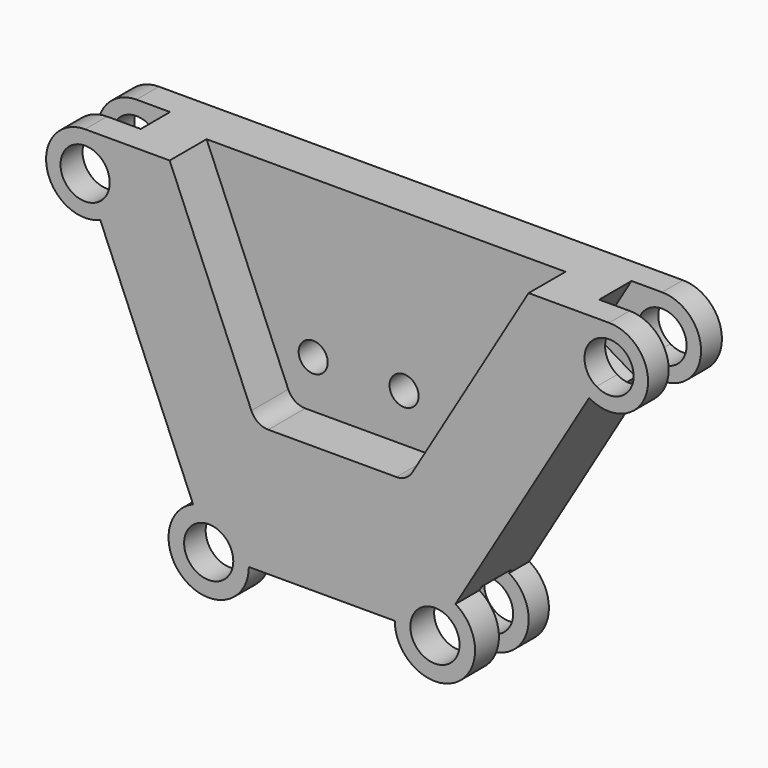
from build123d import *

# Parameters (mm, degrees)
F1_DEPTH  = 12.7
F3_DEPTH  = 12.7
F4_R      = 5.08
F5_R      = 3.9996078941
F6_DEPTH  = 25.4
F9_W      = 11.1263459548
F9_H      = 26.6221612692
F10_DEPTH = 12.7
F11_W     = 10.2434670553
F11_H     = 31.0408079531
F12_DEPTH = 12.7
F13_W     = 10.0882626139
F13_H     = 25.7638730109
F14_DEPTH = 12.7
F15_W     = 11.0194860026
F15_H     = 24.3218261437
F16_DEPTH = 12.7


with BuildPart() as f1:
    # F0 (on Front) → F1 (new body, symmetric)
    with BuildSketch(Plane.XZ):
        with BuildLine():
            ThreePointArc((-60.9433906042, 35.5109754222), (-56.1671910173, 39.4692096565), (-54.3759944375, 45.4081755227))
            ThreePointArc((-54.3759944375, 45.4081755227), (-57.5220599051, 53.0034494428), (-65.1173338252, 56.1495149105))
            ThreePointArc((-65.1173338252, 56.1495149105), (-75.6455235346, 43.2789518879), (-60.9433906042, 35.5109754222))
        make_face()
        with BuildLine():
            ThreePointArc((-58.3489453471, 45.4081755227), (-59.4776234248, 41.6658835524), (-62.4872270773, 39.1717004698))
            ThreePointArc((-62.4872270773, 39.1717004698), (-70.7570442257, 49.150467493), (-58.3489453471, 45.4081755227))
        make_face(mode=Mode.SUBTRACT)
        with BuildLine():
            ThreePointArc((-65.1173338252, 56.1495149105), (-57.5220599051, 53.0034494428), (-54.3759944375, 45.4081755227))
            ThreePointArc((-54.3759944375, 45.4081755227), (-56.1671910173, 39.4692096565), (-60.9433906042, 35.5109754222))
            Line((-60.9433906042, 35.5109754222), (-35.3970214505, -25.0642442118))
            ThreePointArc((-35.3970214505, -25.0642442118), (-24.9935148248, -26.0385154856), (-20.0531436301, -35.2458433869))
            Line((-20.0531436301, -35.2458433869), (20.1120705093, -35.2458433869))
            ThreePointArc((20.1120705093, -35.2458433869), (25.6970539708, -25.6418838342), (36.8063836854, -25.7461558165))
            Line((36.8063836854, -25.7461558165), (73.5966621145, 36.1738394268))
            ThreePointArc((73.5966621145, 36.1738394268), (68.7255805584, 48.2531038009), (79.0833194494, 56.1495149105))
            Line((79.0833194494, 56.1495149105), (-65.1173338252, 56.1495149105))
        make_face()
        with BuildLine():
            ThreePointArc((89.8246588372, 45.4081755227), (86.6785933696, 53.0034494428), (79.0833194494, 56.1495149105))
            ThreePointArc((79.0833194494, 56.1495149105), (68.7255805584, 48.2531038009), (73.5966621145, 36.1738394268))
            ThreePointArc((73.5966621145, 36.1738394268), (84.3956787796, 36.0724800376), (89.8246588372, 45.4081755227))
        make_face()
        with BuildLine():
            ThreePointArc((85.8517079276, 45.4081755227), (82.4307708597, 39.5255186699), (75.6260384765, 39.5893877739))
            ThreePointArc((75.6260384765, 39.5893877739), (75.7358680391, 51.2908323755), (85.8517079276, 45.4081755227))
        make_face(mode=Mode.SUBTRACT)
        with BuildLine():
            Line((-33.7332454412, -29.009368334), (-35.3970214505, -25.0642442118))
            ThreePointArc((-35.3970214505, -25.0642442118), (-37.2127625616, -44.4531712882), (-20.0531436301, -35.2458433869))
            Line((-20.0531436301, -35.2458433869), (-24.334750215, -35.2458433869))
            ThreePointArc((-24.334750215, -35.2458433869), (-34.8454306635, -40.8855537873), (-33.7332454412, -29.009368334))
        make_face()
        with BuildLine():
            ThreePointArc((-20.0531436301, -35.2458433869), (-24.9935148248, -26.0385154856), (-35.3970214505, -25.0642442118))
            Line((-35.3970214505, -25.0642442118), (-33.7332454412, -29.009368334))
            ThreePointArc((-33.7332454412, -29.009368334), (-27.3608467229, -29.6061329865), (-24.334750215, -35.2458433869))
            Line((-24.334750215, -35.2458433869), (-20.0531436301, -35.2458433869))
        make_face()
        with BuildLine():
            Line((34.6193465454, -29.4270556381), (36.8063836854, -25.7461558165))
            ThreePointArc((36.8063836854, -25.7461558165), (25.6970539708, -25.6418838342), (20.1120705093, -35.2458433869))
            Line((20.1120705093, -35.2458433869), (24.3936770943, -35.2458433869))
            ThreePointArc((24.3936770943, -35.2458433869), (27.8146141622, -29.3631865341), (34.6193465454, -29.4270556381))
        make_face()
        with BuildLine():
            ThreePointArc((42.2120606357, -35.2458433869), (40.7660251252, -29.7808317852), (36.8063836854, -25.7461558165))
            Line((36.8063836854, -25.7461558165), (34.6193465454, -29.4270556381))
            ThreePointArc((34.6193465454, -29.4270556381), (37.0447224253, -31.8983919766), (37.9304540507, -35.2458433869))
            ThreePointArc((37.9304540507, -35.2458433869), (31.1620655725, -42.0142318651), (24.3936770943, -35.2458433869))
            Line((24.3936770943, -35.2458433869), (20.1120705093, -35.2458433869))
            ThreePointArc((20.1120705093, -35.2458433869), (31.1620655725, -46.2958384501), (42.2120606357, -35.2458433869))
        make_face()
    extrude(amount=F1_DEPTH, both=True)

    # F2 (on face) → F3 (cut)
    with BuildSketch(Plane.XZ.offset(12.7)):
        Polygon((-41.8454812837, 56.1495149105), (-18.0603434561, -0.2494958163), (23.4314955848, -0.2494958163), (56.9414353, 56.1495149105), align=None)
    extrude(amount=-F3_DEPTH, mode=Mode.SUBTRACT)

    # F4
    f4_edges = [f1.edges().sort_by_distance(p)[0] for p in [
        (23.431496, -6.35, -0.249496),
        (-18.060343, -6.35, -0.249496),
    ]]
    fillet(f4_edges, radius=F4_R)

    # F5 (on face) → F6 (cut)
    with BuildSketch(Plane.XZ):
        with Locations((-12.5058135018, 12.8743648529)):
            Circle(F5_R)
        with Locations((12.5058135018, 12.8743648529)):
            Circle(F5_R)
    extrude(amount=-F6_DEPTH, mode=Mode.SUBTRACT)

    # F9 (on face) → F10 (cut, symmetric)
    with BuildSketch(Plane(origin=(38.5090528963, 0, -22.8804729802), x_dir=(0, 1, 0), z_dir=(0.8597006167, 0, -0.5107982475))):
        with Locations((-0.0419579446, 78.6430984735)):
            Rectangle(F9_W, F9_H)
    extrude(amount=F10_DEPTH, both=True, mode=Mode.SUBTRACT)

    # F11 (on face) → F12 (cut, symmetric)
    with BuildSketch(Plane(origin=(38.5090528963, 0, -22.8804729802), x_dir=(0, 1, 0), z_dir=(0.8597006167, 0, -0.5107982475))):
        with Locations((0.6208214909, -17.5293247448)):
            Rectangle(F11_W, F11_H)
    extrude(amount=F12_DEPTH, both=True, mode=Mode.SUBTRACT)

    # F13 (on face) → F14 (cut, symmetric)
    with BuildSketch(Plane(origin=(-39.0262986274, 0, -16.4585491801), x_dir=(0, -1, 0), z_dir=(-0.9214121017, 0, -0.3885868485))):
        with Locations((0.0776012894, 66.4450954646)):
            Rectangle(F13_W, F13_H)
    extrude(amount=F14_DEPTH, both=True, mode=Mode.SUBTRACT)

    # F15 (on face) → F16 (cut, symmetric)
    with BuildSketch(Plane(origin=(-39.0262986274, 0, -16.4585491801), x_dir=(0, -1, 0), z_dir=(-0.9214121017, 0, -0.3885868485))):
        with Locations((-0.2328096889, -21.5005939982)):
            Rectangle(F15_W, F15_H)
    extrude(amount=F16_DEPTH, both=True, mode=Mode.SUBTRACT)


solid = f1.part
